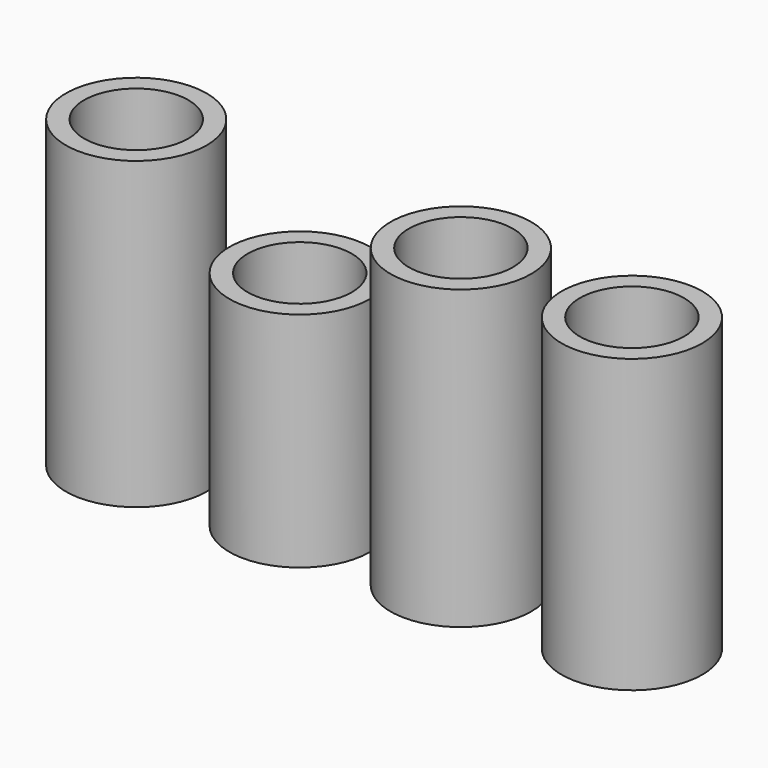
from build123d import *

# Parameters (mm, degrees)
F0_R     = 10.668
F0_R_2   = 7.8994
F1_DEPTH = 45.03
F2_R     = 10.668
F2_R_2   = 7.8994
F3_DEPTH = 33.75
F4_R     = 10.668
F4_R_2   = 7.8994
F5_DEPTH = 44.21
F6_R     = 10.668
F6_R_2   = 7.8994
F7_DEPTH = 46.19


with BuildPart() as f1:
    # F0 (on Top) → F1 (new body)
    with BuildSketch(Plane.XY):
        Circle(F0_R)
        Circle(F0_R_2, mode=Mode.SUBTRACT)
    extrude(amount=F1_DEPTH)


with BuildPart() as f3:
    # F2 (on Top) → F3 (new body)
    with BuildSketch(Plane.XY):
        with Locations((-24.417456, 0)):
            Circle(F2_R)
        with Locations((-24.417456, 0)):
            Circle(F2_R_2, mode=Mode.SUBTRACT)
    extrude(amount=F3_DEPTH)


with BuildPart() as f5:
    # F4 (on Top) → F5 (new body)
    with BuildSketch(Plane.XY):
        with Locations((25.916765, 0)):
            Circle(F4_R)
        with Locations((25.916765, 0)):
            Circle(F4_R_2, mode=Mode.SUBTRACT)
    extrude(amount=F5_DEPTH)


with BuildPart() as f7:
    # F6 (on Top) → F7 (new body)
    with BuildSketch(Plane.XY):
        with Locations((-49.191229, 0)):
            Circle(F6_R)
        with Locations((-49.191229, 0)):
            Circle(F6_R_2, mode=Mode.SUBTRACT)
    extrude(amount=F7_DEPTH)


solid = Compound([f1.part, f3.part, f5.part, f7.part])
